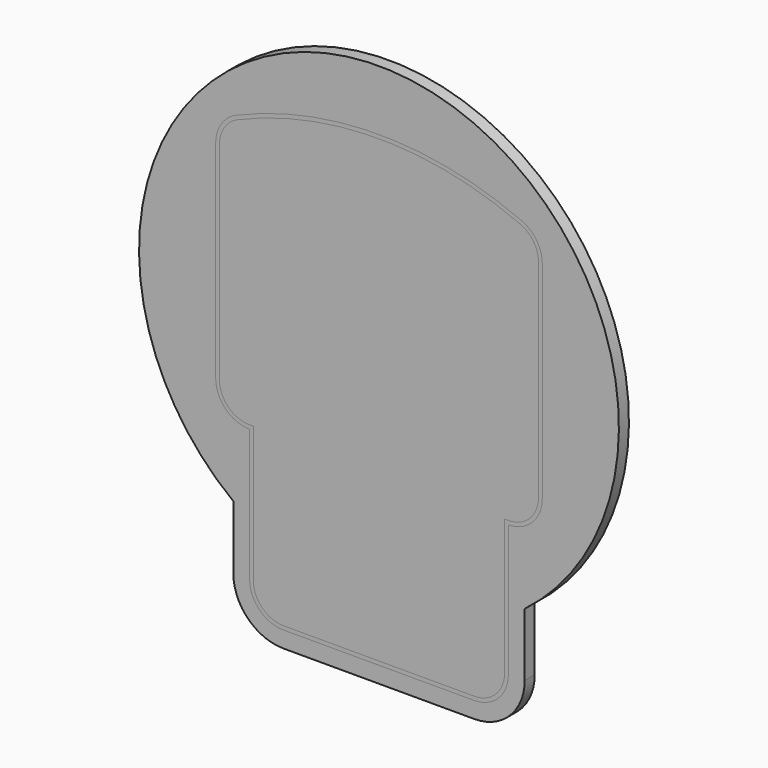
from build123d import *

# Parameters (mm, degrees)
F2_DEPTH = 5


with BuildPart() as f2:
    # F1 (on Front) → F2 (new body)
    with BuildSketch(Plane.XZ):
        with BuildLine():
            Line((58, -100.9997137561), (58, -75.8696682836))
            ThreePointArc((58, -75.8696682836), (0, 95.5002862439), (-58, -75.8696682836))
            Line((-58, -75.8696682836), (-58, -100.9997137561))
            ThreePointArc((-58, -100.9997137561), (-52.1421356237, -115.1418493799), (-38, -120.9997137561))
            Line((-38, -120.9997137561), (38, -120.9997137561))
            ThreePointArc((38, -120.9997137561), (52.1421356237, -115.1418493799), (58, -100.9997137561))
        make_face()
        with BuildLine():
            Line((38, -112.9997137561), (-38, -112.9997137561))
            ThreePointArc((-38, -112.9997137561), (-46.4852813742, -109.4849951304), (-50, -100.9997137561))
            Line((-50, -100.9997137561), (-50, -71.8067468379))
            ThreePointArc((-50, -71.8067468379), (0, 87.5002862439), (50, -71.8067468379))
            Line((50, -71.8067468379), (50, -100.9997137561))
            ThreePointArc((50, -100.9997137561), (46.4852813742, -109.4849951304), (38, -112.9997137561))
        make_face(mode=Mode.SUBTRACT)
        with BuildLine():
            ThreePointArc((-50, -100.9997137561), (-46.4852813742, -109.4849951304), (-38, -112.9997137561))
            Line((-38, -112.9997137561), (38, -112.9997137561))
            ThreePointArc((38, -112.9997137561), (46.4852813742, -109.4849951304), (50, -100.9997137561))
            Line((50, -100.9997137561), (50, -71.8067468379))
            ThreePointArc((50, -71.8067468379), (0, 87.5002862439), (-50, -71.8067468379))
            Line((-50, -71.8067468379), (-50, -100.9997137561))
        make_face()
    extrude(amount=-F2_DEPTH)


with BuildPart() as f2b:
    # F0 (on Front) → F2, piece 2 (new body)
    with BuildSketch(Plane.XZ):
        with BuildLine():
            Line((64.999936902, -35.0199167604), (64.999936902, 47.3358478965))
            ThreePointArc((64.999936902, 47.3358478965), (62.7804507193, 54.7520469242), (56.851787566, 59.729705023))
            ThreePointArc((56.851787566, 59.729705023), (-6.3098e-05, 71.4800832396), (-56.8519137619, 59.729705023))
            ThreePointArc((-56.8519137619, 59.729705023), (-62.7805769152, 54.7520469242), (-65.000063098, 47.3358478965))
            Line((-65.000063098, 47.3358478965), (-65.000063098, -35.0199167604))
            ThreePointArc((-65.000063098, -35.0199167604), (-61.046004644, -44.5658583065), (-51.500063098, -48.5199167604))
            Line((-51.500063098, -48.5199167604), (-51.500063098, -101.0199167604))
            ThreePointArc((-51.500063098, -101.0199167604), (-47.546004644, -110.5658583065), (-38.000063098, -114.5199167604))
            Line((-38.000063098, -114.5199167604), (37.999936902, -114.5199167604))
            ThreePointArc((37.999936902, -114.5199167604), (47.5458784481, -110.5658583065), (51.499936902, -101.0199167604))
            Line((51.499936902, -101.0199167604), (51.499936902, -48.5199167604))
            ThreePointArc((51.499936902, -48.5199167604), (61.0458784481, -44.5658583065), (64.999936902, -35.0199167604))
        make_face()
        with BuildLine():
            Line((37.999936902, -113.0199167604), (-38.000063098, -113.0199167604))
            ThreePointArc((-38.000063098, -113.0199167604), (-46.4853444722, -109.5051981347), (-50.000063098, -101.0199167604))
            Line((-50.000063098, -101.0199167604), (-50.000063098, -47.0199167604))
            Line((-50.000063098, -47.0199167604), (-51.500063098, -47.0199167604))
            ThreePointArc((-51.500063098, -47.0199167604), (-59.9853444722, -43.5051981347), (-63.500063098, -35.0199167604))
            Line((-63.500063098, -35.0199167604), (-63.500063098, 47.3358478965))
            ThreePointArc((-63.500063098, 47.3358478965), (-61.5271864911, 53.9280248101), (-56.2572636881, 58.3526097867))
            ThreePointArc((-56.2572636881, 58.3526097867), (-6.3098e-05, 69.9800832396), (56.2571374922, 58.3526097867))
            ThreePointArc((56.2571374922, 58.3526097867), (61.5270602952, 53.9280248101), (63.499936902, 47.3358478965))
            Line((63.499936902, 47.3358478965), (63.499936902, -35.0199167604))
            ThreePointArc((63.499936902, -35.0199167604), (59.9852182763, -43.5051981347), (51.499936902, -47.0199167604))
            Line((51.499936902, -47.0199167604), (49.999936902, -47.0199167604))
            Line((49.999936902, -47.0199167604), (49.999936902, -101.0199167604))
            ThreePointArc((49.999936902, -101.0199167604), (46.4852182763, -109.5051981347), (37.999936902, -113.0199167604))
        make_face(mode=Mode.SUBTRACT)
    extrude(amount=-F2_DEPTH)


solid = Compound([f2.part, f2b.part])
